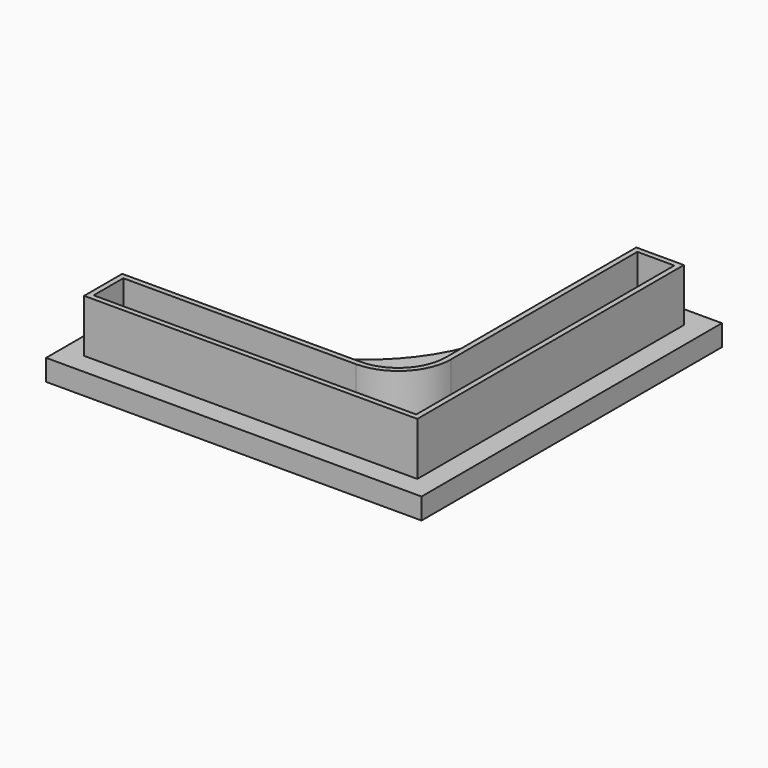
from build123d import *

# Parameters (mm, degrees)
F1_DEPTH = 5
F3_DEPTH = 2


with BuildPart() as f1:
    # F0 (on Top) → F1 (new body)
    with BuildSketch(Plane.XY):
        with BuildLine():
            Line((4, -4), (4, 27.5))
            Line((4, 27.5), (-0.5, 27.5))
            Line((-0.5, 27.5), (-0.5, 5))
            ThreePointArc((-0.5, 5), (-1.818019, 1.818019), (-5, 0.5))
            Line((-5, 0.5), (-27.5, 0.5))
            Line((-27.5, 0.5), (-27.5, -4))
            Line((-27.5, -4), (4, -4))
        make_face()
        with BuildLine():
            Line((-27, 0), (-5, 0))
            ThreePointArc((-5, 0), (-1.464466, 1.464466), (0, 5))
            Line((0, 5), (0, 27))
            Line((0, 27), (3.5, 27))
            Line((3.5, 27), (3.5, -3.5))
            Line((3.5, -3.5), (-27, -3.5))
            Line((-27, -3.5), (-27, 0))
        make_face(mode=Mode.SUBTRACT)
    extrude(amount=F1_DEPTH)

    # F2 (on Top) → F3 (join)
    with BuildSketch(Plane.XY):
        with BuildLine():
            Line((-29.5, -6), (6, -6))
            Line((6, -6), (6, 29.5))
            Line((6, 29.5), (-2.5, 29.5))
            Line((-2.5, 29.5), (-5.242641, 26.757359))
            Line((-5.242641, 26.757359), (-5.242641, 20.242641))
            ThreePointArc((-5.242641, 20.242641), (-9.636039, 9.636039), (-20.242641, 5.242641))
            Line((-20.242641, 5.242641), (-26.757359, 5.242641))
            Line((-26.757359, 5.242641), (-29.5, 2.5))
            Line((-29.5, 2.5), (-29.5, -6))
        make_face()
    extrude(amount=-F3_DEPTH)


solid = f1.part
